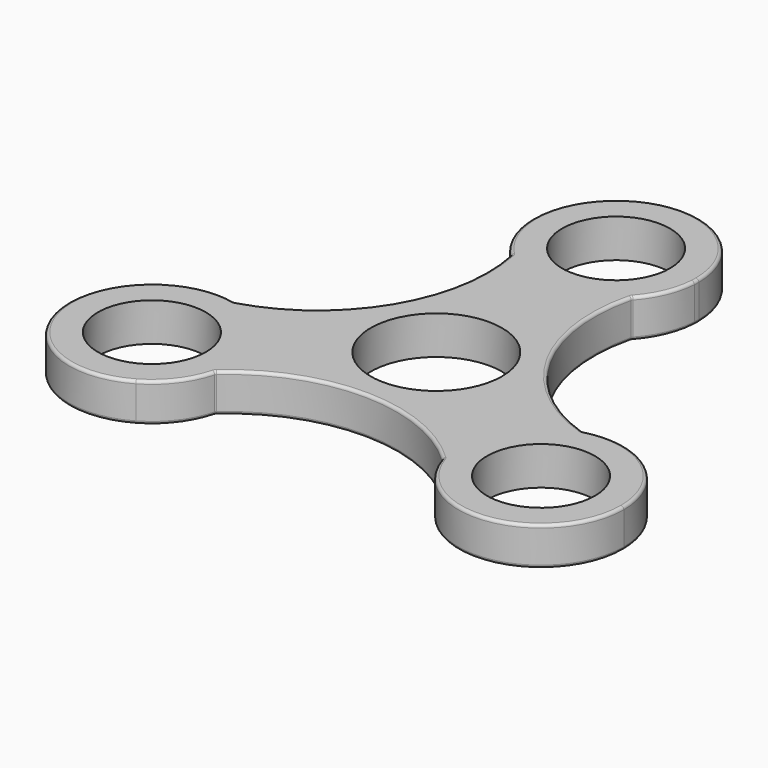
from build123d import *

# Parameters (mm, degrees)
F0_R     = 9.125
F0_R_2   = 14
F0_R_3   = 11.1
F1_DEPTH = 6.5
F2_R     = 0.5


with BuildPart() as f1:
    # F0 (on Top) → F1 (new body)
    with BuildSketch(Plane.XY):
        with BuildLine():
            ThreePointArc((13.9698127256, 37.0811243764), (13.9924511462, 37.5403143239), (14, 38))
            ThreePointArc((14, 38), (0, 52), (-14, 38))
            ThreePointArc((-14, 38), (-11.4231147945, 33.2027875061), (-9.8021655993, 28.0041233719))
            ThreePointArc((-9.8021655993, 28.0041233719), (0.350350197, 24.0043844459), (10.2900255879, 28.5070882549))
            ThreePointArc((10.2900255879, 28.5070882549), (11.7779275125, 32.9451733635), (13.9698127256, 37.0811243764))
        make_face()
        with Locations((0, 38)):
            Circle(F0_R, mode=Mode.SUBTRACT)
        with BuildLine():
            ThreePointArc((-9.8021655993, 28.0041233719), (-11.4231147945, 33.2027875061), (-14, 38))
            ThreePointArc((-14, 38), (-12.9079494574, 32.5792213839), (-9.8021655993, 28.0041233719))
        make_face()
        with BuildLine():
            ThreePointArc((10.2900255879, 28.5070882549), (12.8652035585, 32.4785384727), (13.9698127256, 37.0811243764))
            ThreePointArc((13.9698127256, 37.0811243764), (11.7779275125, 32.9451733635), (10.2900255879, 28.5070882549))
        make_face()
        with BuildLine():
            ThreePointArc((10.2900255879, 28.5070882549), (0.350350197, 24.0043844459), (-9.8021655993, 28.0041233719))
            ThreePointArc((-9.8021655993, 28.0041233719), (-13.275414836, 7.4012328685), (-29.8328754107, -5.3421205627))
            ThreePointArc((-29.8328754107, -5.3421205627), (-21.9758674511, -10.2554376629), (-18.9089653438, -19))
            ThreePointArc((-18.9089653438, -19), (-19.0199638949, -20.7594427388), (-19.3511994511, -22.490986107))
            ThreePointArc((-19.3511994511, -22.490986107), (0.2280517346, -15.1974629279), (19.5428498227, -23.1649676922))
            ThreePointArc((19.5428498227, -23.1649676922), (20.6132316338, -12.3056043937), (29.1533650504, -5.5131372649))
            ThreePointArc((29.1533650504, -5.5131372649), (13.0473631014, 7.7962300595), (10.2900255879, 28.5070882549))
        make_face()
        Circle(F0_R_2, mode=Mode.SUBTRACT)
        with BuildLine():
            ThreePointArc((-39.0981020737, -6.4423494817), (-34.4203208212, -6.272602252), (-29.8328754107, -5.3421205627))
            ThreePointArc((-29.8328754107, -5.3421205627), (-34.5598411744, -5.0976761298), (-39.0981020737, -6.4423494817))
        make_face()
        with BuildLine():
            ThreePointArc((-18.9089653438, -19), (-21.9758674511, -10.2554376629), (-29.8328754107, -5.3421205627))
            ThreePointArc((-29.8328754107, -5.3421205627), (-34.4203208212, -6.272602252), (-39.0981020737, -6.4423494817))
            ThreePointArc((-39.0981020737, -6.4423494817), (-45.2566263357, -25.5981260999), (-25.9089653438, -31.124355653))
            ThreePointArc((-25.9089653438, -31.124355653), (-23.0429000595, -26.4941013554), (-19.3511994511, -22.490986107))
            ThreePointArc((-19.3511994511, -22.490986107), (-19.0199638949, -20.7594427388), (-18.9089653438, -19))
        make_face()
        with Locations((-32.9089653438, -19)):
            Circle(F0_R, mode=Mode.SUBTRACT)
        with BuildLine():
            ThreePointArc((39.9089653438, -6.875644347), (34.466014854, -6.7086861507), (29.1533650504, -5.5131372649))
            ThreePointArc((29.1533650504, -5.5131372649), (20.6132316338, -12.3056043937), (19.5428498227, -23.1649676922))
            ThreePointArc((19.5428498227, -23.1649676922), (22.6423933087, -26.6725711115), (25.1282893481, -30.6387748947))
            ThreePointArc((25.1282893481, -30.6387748947), (39.5070914437, -31.3476609919), (46.9089653438, -19))
            ThreePointArc((46.9089653438, -19), (45.0333209968, -12), (39.9089653438, -6.875644347))
        make_face()
        with Locations((32.9089653438, -19)):
            Circle(F0_R, mode=Mode.SUBTRACT)
        with BuildLine():
            ThreePointArc((39.9089653438, -6.875644347), (34.6684080827, -5.1109985511), (29.1533650504, -5.5131372649))
            ThreePointArc((29.1533650504, -5.5131372649), (34.466014854, -6.7086861507), (39.9089653438, -6.875644347))
        make_face()
        with BuildLine():
            ThreePointArc((25.1282893481, -30.6387748947), (22.6423933087, -26.6725711115), (19.5428498227, -23.1649676922))
            ThreePointArc((19.5428498227, -23.1649676922), (21.6946376159, -27.3808623429), (25.1282893481, -30.6387748947))
        make_face()
        with BuildLine():
            ThreePointArc((-25.9089653438, -31.124355653), (-21.7604586252, -27.4682228328), (-19.3511994511, -22.490986107))
            ThreePointArc((-19.3511994511, -22.490986107), (-23.0429000595, -26.4941013554), (-25.9089653438, -31.124355653))
        make_face()
        Circle(F0_R_2)
        Circle(F0_R_3, mode=Mode.SUBTRACT)
    extrude(amount=F1_DEPTH)

    # F2
    f2_edges = [f1.edges().sort_by_distance(p)[0] for p in [
        (-19.351199, -22.490986, 3.25),
        (19.54285, -23.164968, 3.25),
        (0.228052, -15.197463, 0),
        (0.228052, -15.197463, 6.5),
        (-29.832875, -5.342121, 3.25),
        (-44.854349, -26.30122, 0),
        (-44.854349, -26.30122, 6.5),
        (29.153365, -5.513137, 3.25),
        (45.204699, -25.694396, 0),
        (45.204699, -25.694396, 6.5),
        (10.290026, 28.507088, 3.25),
        (13.047363, 7.79623, 0),
        (13.047363, 7.79623, 6.5),
        (-9.802166, 28.004123, 3.25),
        (-0.35035, 51.995616, 0),
        (-0.35035, 51.995616, 6.5),
        (-13.275415, 7.401233, 0),
        (-13.275415, 7.401233, 6.5),
    ]]
    fillet(f2_edges, radius=F2_R)


solid = f1.part
